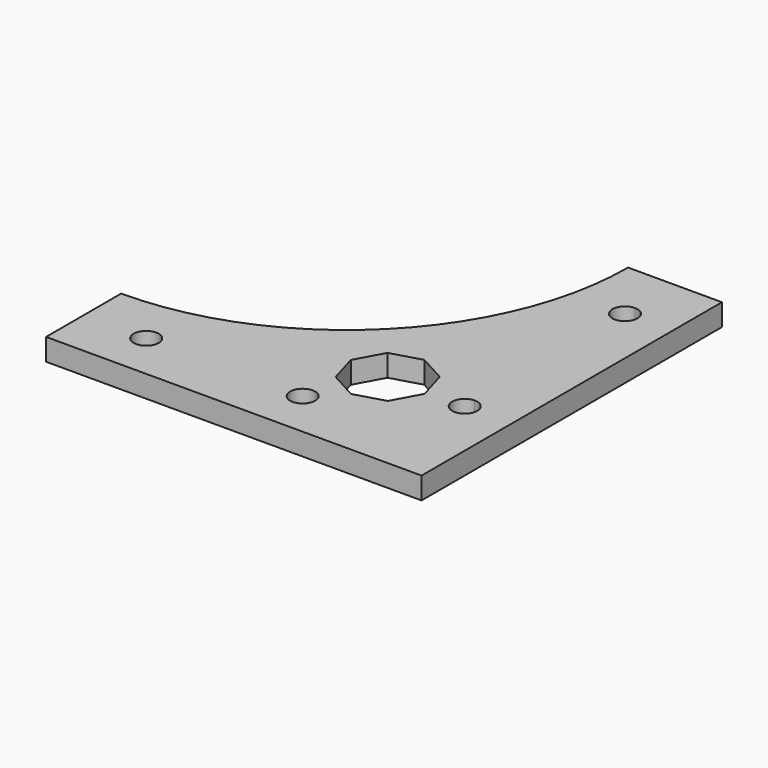
from build123d import *

# Parameters (mm, degrees)
F1_DEPTH = 3.5
F3_DEPTH = 25


with BuildPart() as f1:
    # F0 (on Top) → F1 (new body)
    with BuildSketch(Plane.XY):
        with BuildLine():
            Line((-30, 0), (0, 0))
            Line((0, 0), (0, 60))
            Line((0, 60), (-15, 60))
            ThreePointArc((-15, 60), (-28.180195, 28.180195), (-60, 15))
            Line((-60, 15), (-60, 0))
            Line((-60, 0), (-30, 0))
        make_face()
    extrude(amount=F1_DEPTH)

    # F2 (on face) → F3 (cut)
    with BuildSketch(Plane.XY.offset(3.5)):
        Polygon((-15.885395, 13.125587), (-15.394067, 14.024758), (-13.501974, 17.487445), (-14.900941, 22.257077), (-19.262799, 24.640497), (-24.03243, 23.24153), (-26.415851, 18.879673), (-25.016884, 14.110041), (-20.655026, 11.726621), align=None)
        with BuildLine():
            ThreePointArc((-23, 7.5), (-26.414214, 8.914214), (-25, 5.5))
            ThreePointArc((-25, 5.5), (-23.585786, 6.085786), (-23, 7.5))
        make_face()
        with BuildLine():
            ThreePointArc((-50, 5.5), (-48.585786, 6.085786), (-48, 7.5))
            ThreePointArc((-48, 7.5), (-51.414214, 8.914214), (-50, 5.5))
        make_face()
        with BuildLine():
            ThreePointArc((-7.5, 16), (-6.085786, 16.585786), (-5.5, 18))
            ThreePointArc((-5.5, 18), (-6.085786, 19.414214), (-7.5, 20))
            Line((-7.5, 20), (-7.5, 18))
            Line((-7.5, 18), (-7.5, 16))
        make_face()
        with BuildLine():
            Line((-7.5, 18), (-7.5, 20))
            ThreePointArc((-7.5, 20), (-9.5, 18), (-7.5, 16))
            Line((-7.5, 16), (-7.5, 18))
        make_face()
        with BuildLine():
            ThreePointArc((-5.5, 50), (-6.085786, 51.414214), (-7.5, 52))
            Line((-7.5, 52), (-7.5, 50))
            Line((-7.5, 50), (-7.5, 48))
            ThreePointArc((-7.5, 48), (-6.085786, 48.585786), (-5.5, 50))
        make_face()
        with BuildLine():
            Line((-7.5, 50), (-7.5, 52))
            ThreePointArc((-7.5, 52), (-9.5, 50), (-7.5, 48))
            Line((-7.5, 48), (-7.5, 50))
        make_face()
    extrude(amount=-F3_DEPTH, mode=Mode.SUBTRACT)


solid = f1.part
